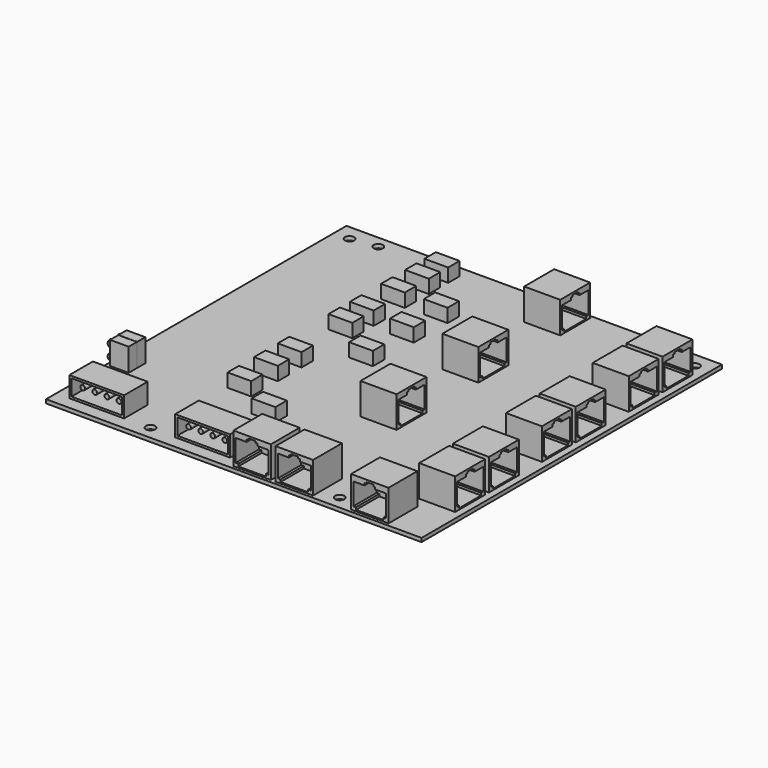
from build123d import *

# Parameters (mm, degrees)
F0_W      = 158.75
F0_H      = 158.75
F1_DEPTH  = 1.5875
F2_R      = 1.9685
F3_DEPTH  = 1.5875
F4_W      = 15.24
F4_H      = 15.8242
F4_W_2    = 15.8242
F4_H_2    = 15.24
F5_DEPTH  = 13.2588
F7_DEPTH  = 12.319
F9_DEPTH  = 12.319
F11_DEPTH = 12.319
F13_DEPTH = 12.319
F14_W     = 23.1648
F14_H     = 12.446
F15_DEPTH = 8.636
F16_W     = 21.3868
F16_H     = 6.858
F17_DEPTH = 11.049
F18_R     = 1.016
F19_DEPTH = 8.89
F20_W     = 10.033
F20_H     = 6.0452
F21_DEPTH = 5.715
F22_W     = 7.874
F22_H     = 4.318
F23_DEPTH = 9.7282
F24_R     = 1.397
F25_DEPTH = 2.032
F26_R     = 0.762


with BuildPart() as f1:
    # F0 (on Top) → F1 (new body)
    with BuildSketch(Plane.XY):
        with Locations((79.375, 79.375)):
            Rectangle(F0_W, F0_H)
    extrude(amount=F1_DEPTH)

    # F2 (on face) → F3 (cut, through all)
    with BuildSketch(Plane.XY.offset(1.5875)):
        with Locations((119.634, 5.6642)):
            Circle(F2_R)
        with Locations((39.624, 5.6642)):
            Circle(F2_R)
        with Locations((152.4, 152.4)):
            Circle(F2_R)
        with Locations((17.526, 153.67)):
            Circle(F2_R)
        with Locations((6.604, 152.146)):
            Circle(F2_R)
    extrude(amount=-F3_DEPTH, mode=Mode.SUBTRACT)

    # F4 (on face) → F5 (join)
    with BuildSketch(Plane.XY.offset(1.5875)):
        with Locations((148.2344, 29.2989)):
            Rectangle(F4_W, F4_H)
        with Locations((148.2344, 47.1551)):
            Rectangle(F4_W, F4_H)
        with Locations((148.2344, 75.1713)):
            Rectangle(F4_W, F4_H)
        with Locations((148.2344, 93.0275)):
            Rectangle(F4_W, F4_H)
        with Locations((148.2344, 121.0437)):
            Rectangle(F4_W, F4_H)
        with Locations((148.2344, 138.8999)):
            Rectangle(F4_W, F4_H)
        with Locations((135.8519, 8.89)):
            Rectangle(F4_W_2, F4_H_2)
        with Locations((103.9495, 8.89)):
            Rectangle(F4_W_2, F4_H_2)
        with Locations((86.0933, 8.89)):
            Rectangle(F4_W_2, F4_H_2)
        with Locations((96.4438, 149.5679)):
            Rectangle(F4_W, F4_H)
        with Locations((96.4438, 106.3117)):
            Rectangle(F4_W, F4_H)
        with Locations((96.4438, 63.0555)):
            Rectangle(F4_W, F4_H)
    extrude(amount=F5_DEPTH)

    # F6 (on face) → F7 (cut)
    with BuildSketch(Plane.YZ.offset(155.8544)):
        Polygon((30.788098, 13.984641), (29.2989, 13.984641), (27.809702, 13.984641), (27.809702, 13.323636), (27.002559, 13.323636), (27.002559, 12.407692), (22.348352, 12.407692), (22.348352, 3.14106), (23.474891, 3.14106), (23.474891, 2.160809), (29.2989, 2.160809), (35.122909, 2.160809), (35.122909, 3.14106), (36.249448, 3.14106), (36.249448, 12.407692), (31.595241, 12.407692), (31.595241, 13.323636), (30.788098, 13.323636), align=None)
    extrude(amount=-F7_DEPTH, mode=Mode.SUBTRACT)

    # F8 (on face) → F9 (cut)
    with BuildSketch(Plane.YZ.offset(155.8544)):
        Polygon((48.644298, 13.984641), (47.1551, 13.984641), (45.665902, 13.984641), (45.665902, 13.323636), (44.858759, 13.323636), (44.858759, 12.407692), (40.204552, 12.407692), (40.204552, 3.14106), (41.331091, 3.14106), (41.331091, 2.160809), (47.1551, 2.160809), (52.979109, 2.160809), (52.979109, 3.14106), (54.105648, 3.14106), (54.105648, 12.407692), (49.451441, 12.407692), (49.451441, 13.323636), (48.644298, 13.323636), align=None)
        Polygon((76.660498, 13.984641), (73.682102, 13.984641), (73.682102, 13.323636), (72.874959, 13.323636), (72.874959, 12.407692), (68.220752, 12.407692), (68.220752, 3.14106), (69.347291, 3.14106), (69.347291, 2.160809), (80.995309, 2.160809), (80.995309, 3.14106), (82.121848, 3.14106), (82.121848, 12.407692), (77.467641, 12.407692), (77.467641, 13.323636), (76.660498, 13.323636), align=None)
        Polygon((94.516698, 13.984641), (91.538302, 13.984641), (91.538302, 13.323636), (90.731159, 13.323636), (90.731159, 12.407692), (86.076952, 12.407692), (86.076952, 3.14106), (87.203491, 3.14106), (87.203491, 2.160809), (98.851509, 2.160809), (98.851509, 3.14106), (99.978048, 3.14106), (99.978048, 12.407692), (95.323841, 12.407692), (95.323841, 13.323636), (94.516698, 13.323636), align=None)
        Polygon((122.532898, 13.984641), (119.554502, 13.984641), (119.554502, 13.323636), (118.747359, 13.323636), (118.747359, 12.407692), (114.093152, 12.407692), (114.093152, 3.14106), (115.219691, 3.14106), (115.219691, 2.160809), (126.867709, 2.160809), (126.867709, 3.14106), (127.994248, 3.14106), (127.994248, 12.407692), (123.340041, 12.407692), (123.340041, 13.323636), (122.532898, 13.323636), align=None)
        Polygon((140.389098, 13.984641), (137.410702, 13.984641), (137.410702, 13.323636), (136.603559, 13.323636), (136.603559, 12.407692), (131.949352, 12.407692), (131.949352, 3.14106), (133.075891, 3.14106), (133.075891, 2.160809), (144.723909, 2.160809), (144.723909, 3.14106), (145.850448, 3.14106), (145.850448, 12.407692), (141.196241, 12.407692), (141.196241, 13.323636), (140.389098, 13.323636), align=None)
    extrude(amount=-F9_DEPTH, mode=Mode.SUBTRACT)

    # F10 (on face) → F11 (cut)
    with BuildSketch(Plane.YZ.offset(104.0638)):
        Polygon((64.544698, 13.984641), (61.566302, 13.984641), (61.566302, 13.323636), (60.759159, 13.323636), (60.759159, 12.407692), (56.104952, 12.407692), (56.104952, 3.14106), (57.231491, 3.14106), (57.231491, 2.160809), (68.879509, 2.160809), (68.879509, 3.14106), (70.006048, 3.14106), (70.006048, 12.407692), (65.351841, 12.407692), (65.351841, 13.323636), (64.544698, 13.323636), align=None)
        Polygon((107.800898, 13.984641), (104.822502, 13.984641), (104.822502, 13.323636), (104.015359, 13.323636), (104.015359, 12.407692), (99.361152, 12.407692), (99.361152, 3.14106), (100.487691, 3.14106), (100.487691, 2.160809), (112.135709, 2.160809), (112.135709, 3.14106), (113.262248, 3.14106), (113.262248, 12.407692), (108.608041, 12.407692), (108.608041, 13.323636), (107.800898, 13.323636), align=None)
        Polygon((151.057098, 13.984641), (148.078702, 13.984641), (148.078702, 13.323636), (147.271559, 13.323636), (147.271559, 12.407692), (142.617352, 12.407692), (142.617352, 3.14106), (143.743891, 3.14106), (143.743891, 2.160809), (155.391909, 2.160809), (155.391909, 3.14106), (156.518448, 3.14106), (156.518448, 12.407692), (151.864241, 12.407692), (151.864241, 13.323636), (151.057098, 13.323636), align=None)
    extrude(amount=-F11_DEPTH, mode=Mode.SUBTRACT)

    # F12 (on face) → F13 (cut)
    with BuildSketch(Plane.XZ.offset(-1.27)):
        Polygon((137.341098, 13.984641), (134.362702, 13.984641), (134.362702, 13.323636), (133.555559, 13.323636), (133.555559, 12.407692), (128.901352, 12.407692), (128.901352, 3.14106), (130.027891, 3.14106), (130.027891, 2.160809), (141.675909, 2.160809), (141.675909, 3.14106), (142.802448, 3.14106), (142.802448, 12.407692), (138.148241, 12.407692), (138.148241, 13.323636), (137.341098, 13.323636), align=None)
        Polygon((105.438698, 13.984641), (102.460302, 13.984641), (102.460302, 13.323636), (101.653159, 13.323636), (101.653159, 12.407692), (96.998952, 12.407692), (96.998952, 3.14106), (98.125491, 3.14106), (98.125491, 2.160809), (109.773509, 2.160809), (109.773509, 3.14106), (110.900048, 3.14106), (110.900048, 12.407692), (106.245841, 12.407692), (106.245841, 13.323636), (105.438698, 13.323636), align=None)
        Polygon((87.582498, 13.984641), (84.604102, 13.984641), (84.604102, 13.323636), (83.796959, 13.323636), (83.796959, 12.407692), (79.142752, 12.407692), (79.142752, 3.14106), (80.269291, 3.14106), (80.269291, 2.160809), (91.917309, 2.160809), (91.917309, 3.14106), (93.043848, 3.14106), (93.043848, 12.407692), (88.389641, 12.407692), (88.389641, 13.323636), (87.582498, 13.323636), align=None)
    extrude(amount=-F13_DEPTH, mode=Mode.SUBTRACT)

    # F14 (on face) → F15 (join)
    with BuildSketch(Plane.XY.offset(1.5875)):
        with Locations((61.8998, 11.557)):
            Rectangle(F14_W, F14_H)
        with Locations((17.145, 11.557)):
            Rectangle(F14_W, F14_H)
    extrude(amount=F15_DEPTH)

    # F16 (on face) → F17 (cut)
    with BuildSketch(Plane.XZ.offset(-5.334)):
        with Locations((61.8998, 5.9055)):
            Rectangle(F16_W, F16_H)
        with Locations((17.145, 5.9055)):
            Rectangle(F16_W, F16_H)
    extrude(amount=-F17_DEPTH, mode=Mode.SUBTRACT)

    # F18 (on face) → F19 (join)
    with BuildSketch(Plane.XZ.offset(-16.383)):
        with Locations((54.2544, 5.9055)):
            Circle(F18_R)
        with Locations((59.3598, 5.9055)):
            Circle(F18_R)
        with Locations((64.4652, 5.9055)):
            Circle(F18_R)
        with Locations((69.5706, 5.9055)):
            Circle(F18_R)
        with Locations((9.4996, 5.9055)):
            Circle(F18_R)
        with Locations((14.605, 5.9055)):
            Circle(F18_R)
        with Locations((19.7104, 5.9055)):
            Circle(F18_R)
        with Locations((24.8158, 5.9055)):
            Circle(F18_R)
    extrude(amount=F19_DEPTH)

    # F20 (on face) → F21 (join)
    with BuildSketch(Plane.XY.offset(1.5875)):
        with Locations((64.5033, 128.2954)):
            Rectangle(F20_W, F20_H)
        with Locations((64.5033, 110.4392)):
            Rectangle(F20_W, F20_H)
        with Locations((64.5033, 88.8238)):
            Rectangle(F20_W, F20_H)
        with Locations((64.5033, 37.3126)):
            Rectangle(F20_W, F20_H)
        with Locations((46.6725, 150.9014)):
            Rectangle(F20_W, F20_H)
        with Locations((46.6725, 140.6652)):
            Rectangle(F20_W, F20_H)
        with Locations((46.6725, 127.9906)):
            Rectangle(F20_W, F20_H)
        with Locations((46.6725, 111.5314)):
            Rectangle(F20_W, F20_H)
        with Locations((46.6725, 100.2284)):
            Rectangle(F20_W, F20_H)
        with Locations((46.6725, 73.4314)):
            Rectangle(F20_W, F20_H)
        with Locations((46.6725, 60.8584)):
            Rectangle(F20_W, F20_H)
        with Locations((46.6725, 46.8376)):
            Rectangle(F20_W, F20_H)
    extrude(amount=F21_DEPTH)

    # F22 (on face) → F23 (join)
    with BuildSketch(Plane.XY.offset(1.5875)):
        with Locations((5.588, 33.909)):
            Rectangle(F22_W, F22_H)
        with Locations((5.588, 38.354)):
            Rectangle(F22_W, F22_H)
    extrude(amount=F23_DEPTH)

    # F24 (on face) → F25 (join)
    with BuildSketch(Plane(origin=(1.651, 0, 0), x_dir=(0, -1, 0), z_dir=(-1, 0, 0))):
        with Locations((-33.909, 8.88365)):
            Circle(F24_R)
        with Locations((-33.909, 4.01955)):
            Circle(F24_R)
        with Locations((-38.354, 8.88365)):
            Circle(F24_R)
        with Locations((-38.354, 4.01955)):
            Circle(F24_R)
    extrude(amount=F25_DEPTH)

    # F26
    f26_edges = [f1.edges().sort_by_distance(p)[0] for p in [
        (-0.381, 39.751, 8.88365),
        (-0.381, 35.306, 8.88365),
        (-0.381, 35.306, 4.01955),
        (-0.381, 39.751, 4.01955),
    ]]
    fillet(f26_edges, radius=F26_R)


solid = f1.part
